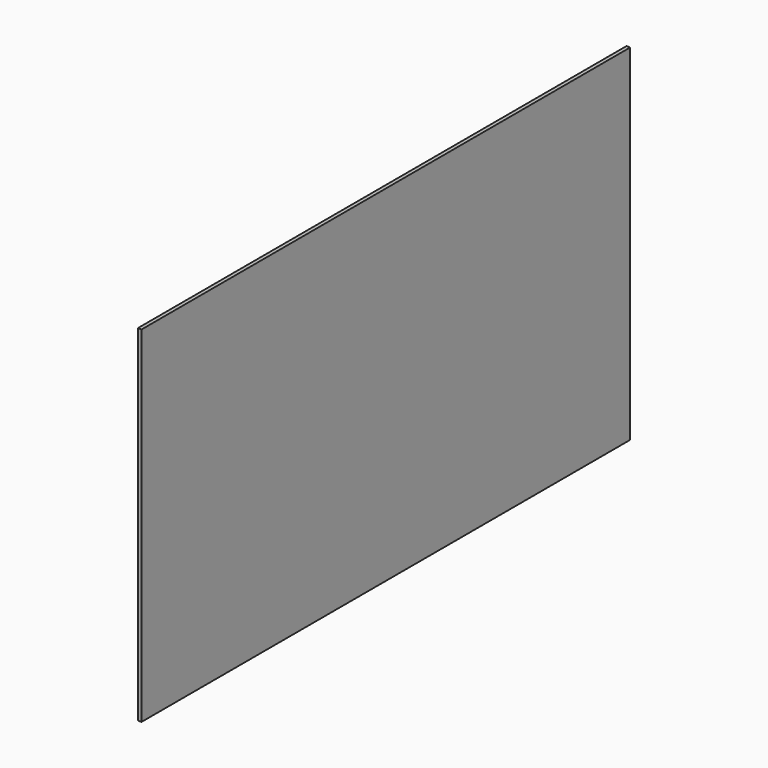
from build123d import *

# Parameters (mm, degrees)
SKETCH_W  = 495
SKETCH_H  = 280
PAD_DEPTH = 3


with BuildPart() as part:
    # Sketch → Pad (new body)
    with BuildSketch(Plane.YZ):
        with Locations((247.5, 140)):
            Rectangle(SKETCH_W, SKETCH_H)
    extrude(amount=PAD_DEPTH)


solid = part.part
